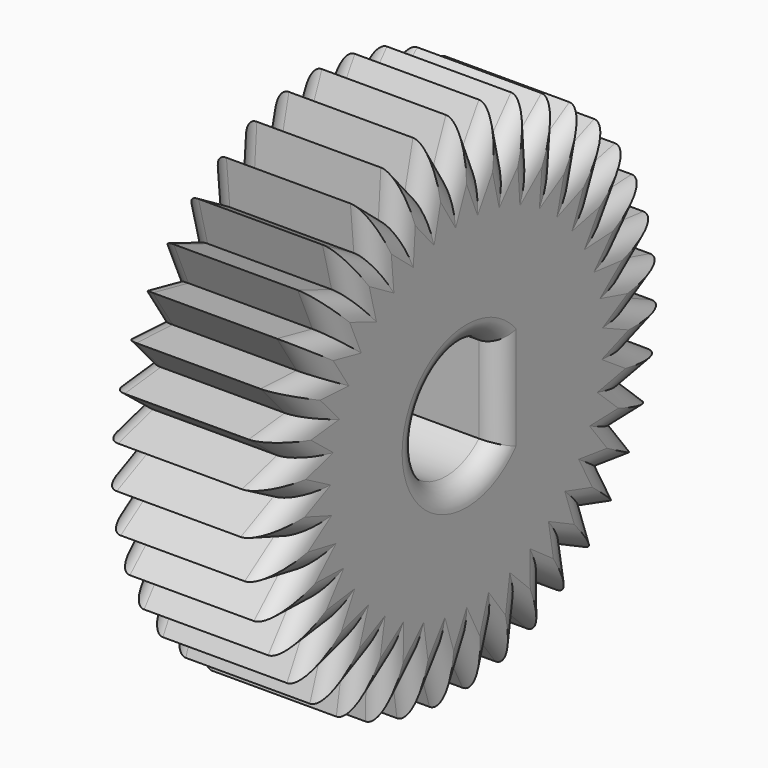
from build123d import *

# Parameters (mm, degrees)
F0_R     = 2.9
F1_DEPTH = 8
F3_DEPTH = 8
F4_R     = 1
F5_R     = 1


with BuildPart() as f1:
    # F0 (on Right) → F1 (new body)
    with BuildSketch(Plane.YZ):
        Polygon((0.84, 10.466346), (0, 12.5), (-0.838096, 10.465561), (-1.993439, 12.338134), (-2.494335, 10.1956), (-3.935098, 11.858594), (-4.085821, 9.663455), (-5.77469, 11.073799), (-5.571336, 8.88291), (-7.46457, 10.004076), (-6.912406, 7.874179), (-8.96097, 8.67713), (-8.074297, 6.663388), (-10.225136, 7.127329), (-9.026918, 5.281896), (-11.224325, 5.39481), (-9.745595, 3.765483), (-11.932659, 3.524446), (-10.211716, 2.153423), (-12.331793, 1.564677), (-10.413209, 0.487468), (-12.41139, -0.433738), (-10.344854, -1.189236), (-12.169387, -2.419043), (-10.008422, -2.833261), (-11.612053, -4.339818), (-9.412626, -4.402029), (-10.753822, -6.146318), (-8.572898, -5.85491), (-9.616923, -7.791753), (-7.510986, -7.154275), (-8.230799, -9.23351), (-6.254392, -8.26647), (-6.631351, -10.434246), (-4.835663, -9.162691), (-4.860004, -11.362863), (-3.291541, -9.819726), (-2.962635, -11.995311), (-1.66202, -10.220558), (-0.988385, -12.315209), (0.010698, -10.354806), (1.011615, -12.314273), (1.683289, -10.218992), (2.985565, -11.992527), (3.312434, -9.816635), (4.882341, -11.358303), (4.85594, -9.158155), (6.652818, -10.428028), (6.27383, -8.260606), (8.251141, -9.225795), (7.529382, -7.147235), (9.635915, -7.782742), (8.590078, -5.846877), (10.771274, -6.136242), (9.428445, -4.39321), (11.627813, -4.32894), (10.022772, -2.823885), (12.183349, -2.407644), (10.357664, -1.179545), (12.423493, -0.422113), (10.42445, 0.497221), (12.342025, 1.576227), (10.221398, 2.162987), (11.941057, 3.53562), (9.753768, 3.77461), (11.230972, 5.405321), (9.033671, 5.29035), (10.230161, 7.136903), (8.079758, 6.670949), (8.964545, 8.685521), (6.916733, 7.880652), (7.466903, 10.011065), (5.57472, 8.888127), (5.776023, 11.079206), (4.088475, 9.667282), (3.935697, 11.862278), (2.496491, 10.197936), (1.99359, 12.34), align=None)
        Circle(F0_R, mode=Mode.SUBTRACT)
    extrude(amount=F1_DEPTH)

    # F2 (on Right) → F3 (join)
    with BuildSketch(Plane.YZ):
        with BuildLine():
            ThreePointArc((2, -2.1), (2.9, 0), (2, 2.1))
            Line((2, 2.1), (2, -2.1))
        make_face()
    extrude(amount=F3_DEPTH)

    # F4
    f4_edges = [f1.edges().sort_by_distance(p)[0] for p in [
        (8, -8.563954, -7.473014),
        (8, -7.870892, -8.193892),
        (8, -7.242596, -8.74999),
        (8, -6.442872, -9.350358),
        (8, -5.733507, -9.798468),
        (8, -4.847833, -10.262777),
        (8, -4.075773, -10.591295),
        (8, -3.127088, -10.907519),
        (8, -2.312327, -11.107935),
        (8, -1.325202, -11.267884),
        (8, -0.488843, -11.335008),
        (8, 0.511156, -11.33454),
        (8, 1.347452, -11.266633),
        (8, 2.334427, -11.105759),
        (8, 3.149, -10.904581),
        (8, 4.097388, -10.587469),
        (8, 4.869141, -10.258229),
        (8, 5.754379, -9.793091),
        (8, 6.463324, -9.344317),
        (8, 7.262486, -8.7432),
        (8, 7.890262, -8.186515),
        (8, 8.582648, -7.464988),
        (8, 9.112996, -6.814809),
        (8, 9.680676, -5.991559),
        (8, 10.099859, -5.264726),
        (8, 10.528129, -4.361075),
        (8, 10.825292, -3.576413),
        (8, 11.10306, -2.615764),
        (8, 11.270506, -1.793594),
        (8, 11.390579, -0.800829),
        (8, 11.423971, 0.037554),
        (8, 11.383237, 1.036724),
        (8, 11.281712, 1.869607),
        (8, 11.081227, 2.849304),
        (8, 10.847412, 3.655115),
        (8, 10.49237, 4.589965),
        (8, 10.132321, 5.347835),
        (8, 9.631916, 6.213627),
        (8, 9.154959, 6.903926),
        (8, 8.522151, 7.678235),
        (8, 7.940639, 8.283087),
        (8, 7.191818, 8.945859),
        (8, 6.520811, 9.449596),
        (8, 5.675371, 9.983666),
        (8, 4.932249, 10.373244),
        (8, 4.012086, 10.76478),
        (8, 3.216094, 11.030107),
        (8, 2.24504, 11.268968),
        (8, 1.416795, 11.403173),
        (8, 0.42, 11.483173),
        (8, -0.419048, 11.48278),
        (8, -1.415767, 11.401847),
        (8, -2.243887, 11.266867),
        (8, -3.214717, 11.027097),
        (8, -4.01046, 10.761025),
        (8, -4.930256, 10.368627),
        (8, -5.673013, 9.978355),
        (8, -6.517953, 9.443493),
        (8, -7.188488, 8.939128),
        (8, -7.936688, 8.275655),
        (8, -8.517634, 7.670259),
        (8, -9.149716, 6.895358),
        (8, -9.626027, 6.204612),
        (8, -10.125621, 5.338353),
        (8, -10.48496, 4.580146),
        (8, -10.839127, 3.644964),
        (8, -11.072188, 2.838934),
        (8, -11.271755, 1.85905),
        (8, -11.372501, 1.026073),
        (8, -11.412299, 0.026865),
        (8, -11.378122, -0.811487),
        (8, -11.257121, -1.804139),
        (8, -11.088905, -2.626152),
        (8, -10.810238, -3.58654),
        (8, -10.51234, -4.370924),
        (8, -10.083224, -5.274174),
        (8, -9.66336, -6.000614),
        (8, -9.09491, -6.823332),
        (8, -2.9, 0),
        (8, 2, 0),
    ]]
    fillet(f4_edges, radius=F4_R)

    # F5
    f5_edges = [f1.edges().sort_by_distance(p)[0] for p in [
        (0, -8.563954, -7.473014),
        (0, -7.870892, -8.193892),
        (0, -7.242596, -8.74999),
        (0, -6.442872, -9.350358),
        (0, -5.733507, -9.798468),
        (0, -4.847833, -10.262777),
        (0, -4.075773, -10.591295),
        (0, -3.127088, -10.907519),
        (0, -2.312327, -11.107935),
        (0, -1.325202, -11.267884),
        (0, -0.488843, -11.335008),
        (0, 0.511156, -11.33454),
        (0, 1.347452, -11.266633),
        (0, 2.334427, -11.105759),
        (0, 3.149, -10.904581),
        (0, 4.097388, -10.587469),
        (0, 4.869141, -10.258229),
        (0, 5.754379, -9.793091),
        (0, 6.463324, -9.344317),
        (0, 7.262486, -8.7432),
        (0, 7.890262, -8.186515),
        (0, 8.582648, -7.464988),
        (0, 9.112996, -6.814809),
        (0, 9.680676, -5.991559),
        (0, 10.099859, -5.264726),
        (0, 10.528129, -4.361075),
        (0, 10.825292, -3.576413),
        (0, 11.10306, -2.615764),
        (0, 11.270506, -1.793594),
        (0, 11.390579, -0.800829),
        (0, 11.423971, 0.037554),
        (0, 11.383237, 1.036724),
        (0, 11.281712, 1.869607),
        (0, 11.081227, 2.849304),
        (0, 10.847412, 3.655115),
        (0, 10.49237, 4.589965),
        (0, 10.132321, 5.347835),
        (0, 9.631916, 6.213627),
        (0, 9.154959, 6.903926),
        (0, 8.522151, 7.678235),
        (0, 7.940639, 8.283087),
        (0, 7.191818, 8.945859),
        (0, 6.520811, 9.449596),
        (0, 5.675371, 9.983666),
        (0, 4.932249, 10.373244),
        (0, 4.012086, 10.76478),
        (0, 3.216094, 11.030107),
        (0, 2.24504, 11.268968),
        (0, 1.416795, 11.403173),
        (0, 0.42, 11.483173),
        (0, -0.419048, 11.48278),
        (0, -1.415767, 11.401847),
        (0, -2.243887, 11.266867),
        (0, -3.214717, 11.027097),
        (0, -4.01046, 10.761025),
        (0, -4.930256, 10.368627),
        (0, -5.673013, 9.978355),
        (0, -6.517953, 9.443493),
        (0, -7.188488, 8.939128),
        (0, -7.936688, 8.275655),
        (0, -8.517634, 7.670259),
        (0, -9.149716, 6.895358),
        (0, -9.626027, 6.204612),
        (0, -10.125621, 5.338353),
        (0, -10.48496, 4.580146),
        (0, -10.839127, 3.644964),
        (0, -11.072188, 2.838934),
        (0, -11.271755, 1.85905),
        (0, -11.372501, 1.026073),
        (0, -11.412299, 0.026865),
        (0, -11.378122, -0.811487),
        (0, -11.257121, -1.804139),
        (0, -11.088905, -2.626152),
        (0, -10.810238, -3.58654),
        (0, -10.51234, -4.370924),
        (0, -10.083224, -5.274174),
        (0, -9.66336, -6.000614),
        (0, -9.09491, -6.823332),
        (0, -2.9, 0),
        (0, 2, 0),
    ]]
    fillet(f5_edges, radius=F5_R)


solid = f1.part
